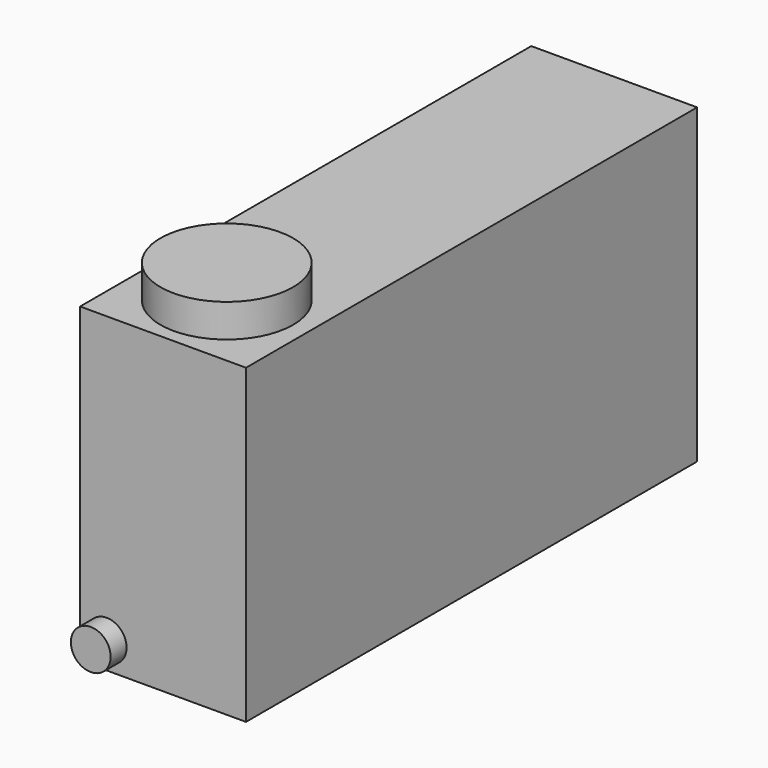
from build123d import *

# Parameters (mm, degrees)
F0_W     = 125
F0_H     = 425
F1_DEPTH = 235
F2_R     = 15
F3_DEPTH = 15
F4_R     = 50
F5_DEPTH = 25


with BuildPart() as f1:
    # F0 (on Top) → F1 (new body)
    with BuildSketch(Plane.XY):
        Rectangle(F0_W, F0_H)
    extrude(amount=F1_DEPTH)

    # F2 (on face) → F3 (join)
    with BuildSketch(Plane.XZ.offset(212.5)):
        with Locations((-42.5, 20)):
            Circle(F2_R)
    extrude(amount=F3_DEPTH)

    # F4 (on face) → F5 (join)
    with BuildSketch(Plane.XY.offset(235)):
        with Locations((0, -152.5)):
            Circle(F4_R)
    extrude(amount=F5_DEPTH)


solid = f1.part
